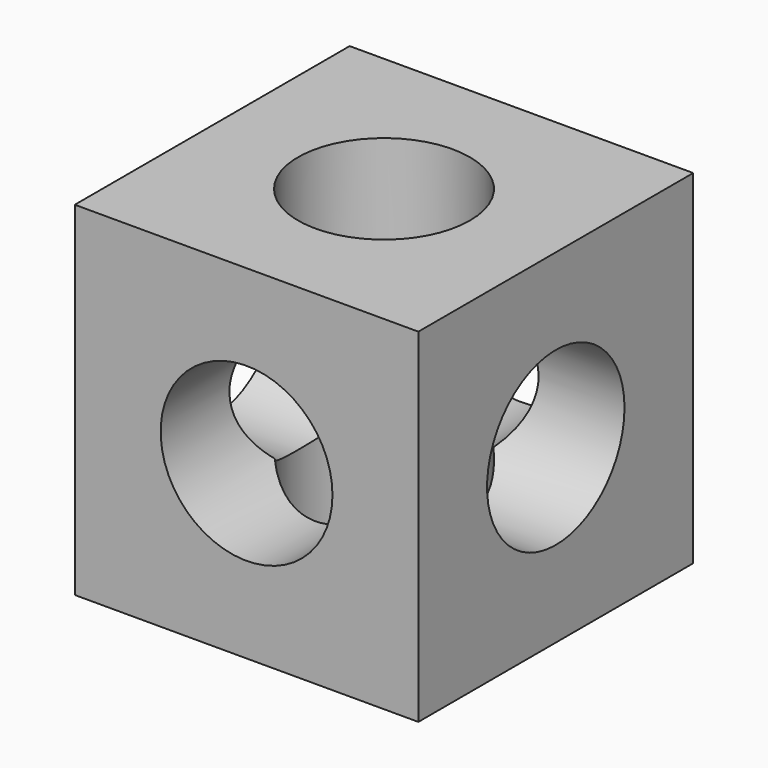
from build123d import *

# Parameters (mm, degrees)
F0_W     = 20
F0_H     = 20
F1_DEPTH = 20
F2_R     = 5
F3_DEPTH = 25
F4_R     = 5
F5_DEPTH = 25
F6_R     = 5
F7_DEPTH = 25


with BuildPart() as f1:
    # F0 (on Top) → F1 (new body)
    with BuildSketch(Plane.XY):
        with Locations((10, 10)):
            Rectangle(F0_W, F0_H)
    extrude(amount=F1_DEPTH)

    # F2 (on face) → F3 (cut, symmetric)
    with BuildSketch(Plane.XY.offset(20)):
        with Locations((10, 10)):
            Circle(F2_R)
    extrude(amount=F3_DEPTH, both=True, mode=Mode.SUBTRACT)

    # F4 (on face) → F5 (cut)
    with BuildSketch(Plane.XZ):
        with Locations((10, 10)):
            Circle(F4_R)
    extrude(amount=-F5_DEPTH, mode=Mode.SUBTRACT)

    # F6 (on face) → F7 (cut)
    with BuildSketch(Plane.YZ.offset(20)):
        with Locations((10, 10)):
            Circle(F6_R)
    extrude(amount=-F7_DEPTH, mode=Mode.SUBTRACT)


solid = f1.part
